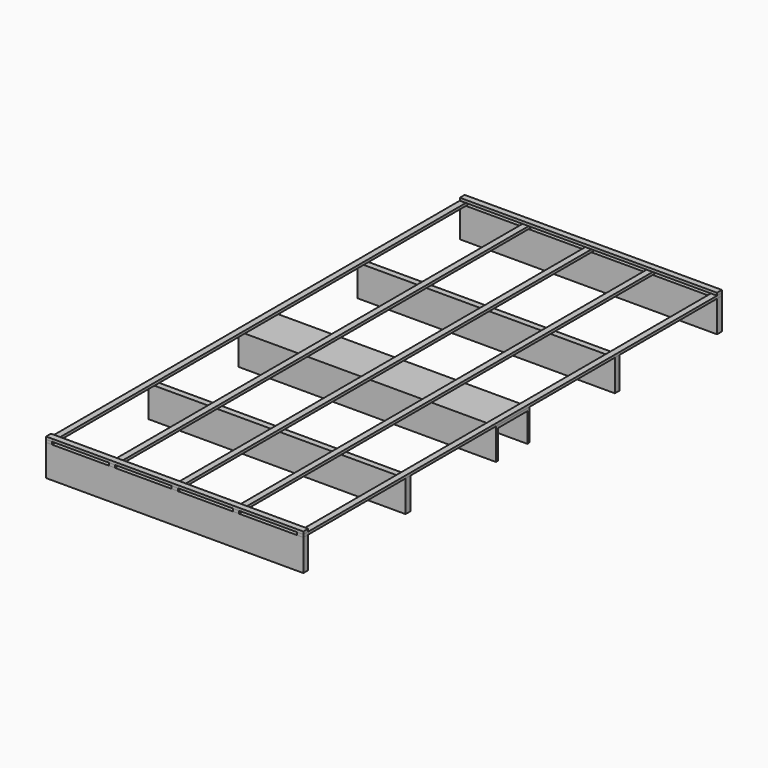
from build123d import *

# Parameters (mm, degrees)
F0_W     = 88.9
F0_H     = 1905
F1_DEPTH = 38.1
F2_W     = 3746.5
F2_H     = 88.9
F3_DEPTH = 38.1
F4_W     = 88.9
F4_H     = 457.2
F4_W_2   = 38.1
F4_H_2   = 419.1
F5_DEPTH = 3746.5


with BuildPart() as f1:
    # F0 (on Top) → F1 (new body)
    with BuildSketch(Plane.XY):
        with Locations((-1828.8, 2857.5)):
            Rectangle(F0_W, F0_H)
        with Locations((-1828.8, 952.5)):
            Rectangle(F0_W, F0_H)
        with Locations((-1828.8, -952.5)):
            Rectangle(F0_W, F0_H)
        with Locations((-1828.8, -2857.5)):
            Rectangle(F0_W, F0_H)
        with Locations((-915.054604, 2857.5)):
            Rectangle(F0_W, F0_H)
        with Locations((-915.054604, 952.5)):
            Rectangle(F0_W, F0_H)
        with Locations((-915.054604, -952.5)):
            Rectangle(F0_W, F0_H)
        with Locations((-915.054604, -2857.5)):
            Rectangle(F0_W, F0_H)
        with Locations((0, 2857.5)):
            Rectangle(F0_W, F0_H)
        with Locations((0, 952.5)):
            Rectangle(F0_W, F0_H)
        with Locations((0, -952.5)):
            Rectangle(F0_W, F0_H)
        with Locations((0, -2857.5)):
            Rectangle(F0_W, F0_H)
        with Locations((892.175, 2857.5)):
            Rectangle(F0_W, F0_H)
        with Locations((892.175, 952.5)):
            Rectangle(F0_W, F0_H)
        with Locations((892.175, -952.5)):
            Rectangle(F0_W, F0_H)
        with Locations((892.175, -2857.5)):
            Rectangle(F0_W, F0_H)
        with Locations((1828.8, 2857.5)):
            Rectangle(F0_W, F0_H)
        with Locations((1828.8, 952.5)):
            Rectangle(F0_W, F0_H)
        with Locations((1828.8, -952.5)):
            Rectangle(F0_W, F0_H)
        with Locations((1828.8, -2857.5)):
            Rectangle(F0_W, F0_H)
    extrude(amount=-F1_DEPTH)


with BuildPart() as f3:
    # F2 (on face) → F3 (new body)
    with BuildSketch(Plane.XY):
        with Locations((0, 3765.55)):
            Rectangle(F2_W, F2_H)
        with Locations((0, -3765.55)):
            Rectangle(F2_W, F2_H)
    extrude(amount=F3_DEPTH)


with BuildPart() as f5:
    # F4 (on face) → F5 (new body)
    with BuildSketch(Plane.YZ.offset(1873.25)):
        with Locations((-3765.55, -266.7)):
            Rectangle(F4_W, F4_H)
        with Locations((-1905, -266.7)):
            Rectangle(F4_W, F4_H)
        Polygon((304.8, -76.2), (304.8, -38.1), (0, -38.1), (-304.8, -38.1), (-304.8, -76.2), (-266.7, -76.2), (266.7, -76.2), align=None)
        with Locations((3765.55, -266.7)):
            Rectangle(F4_W, F4_H)
        with Locations((1905, -266.7)):
            Rectangle(F4_W, F4_H)
        with Locations((285.75, -285.75)):
            Rectangle(F4_W_2, F4_H_2)
        with Locations((-285.75, -285.75)):
            Rectangle(F4_W_2, F4_H_2)
    extrude(amount=-F5_DEPTH)


solid = Compound([f1.part, f3.part, f5.part])
